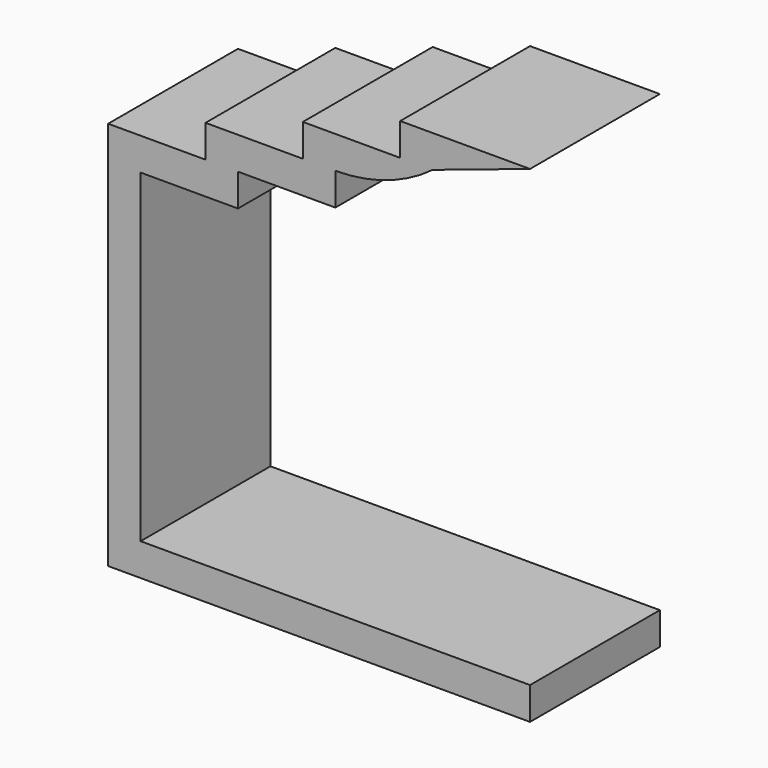
from build123d import *

# Parameters (mm, degrees)
F0_W     = 5
F0_H     = 50
F1_DEPTH = 25


with BuildPart() as f1:
    # F0 (on Front) → F1 (new body)
    with BuildSketch(Plane.XZ):
        Polygon((0, 5), (0, 0), (65, 0), (65, 5), (5, 5), align=None)
        with Locations((2.5, 30)):
            Rectangle(F0_W, F0_H)
        with BuildLine():
            Line((0, 60), (0, 55))
            Line((0, 55), (5, 55))
            Line((5, 55), (20, 55))
            Line((20, 55), (20, 60))
            Line((20, 60), (35, 60))
            Line((35, 60), (35, 65))
            ThreePointArc((35, 65), (42.905694, 66.282918), (50, 70))
            Line((50, 70), (65, 75))
            Line((65, 75), (45, 75))
            Line((45, 75), (45, 70))
            Line((45, 70), (30, 70))
            Line((30, 70), (30, 65))
            Line((30, 65), (15, 65))
            Line((15, 65), (15, 60))
            Line((15, 60), (0, 60))
        make_face()
    extrude(amount=F1_DEPTH)


solid = f1.part
